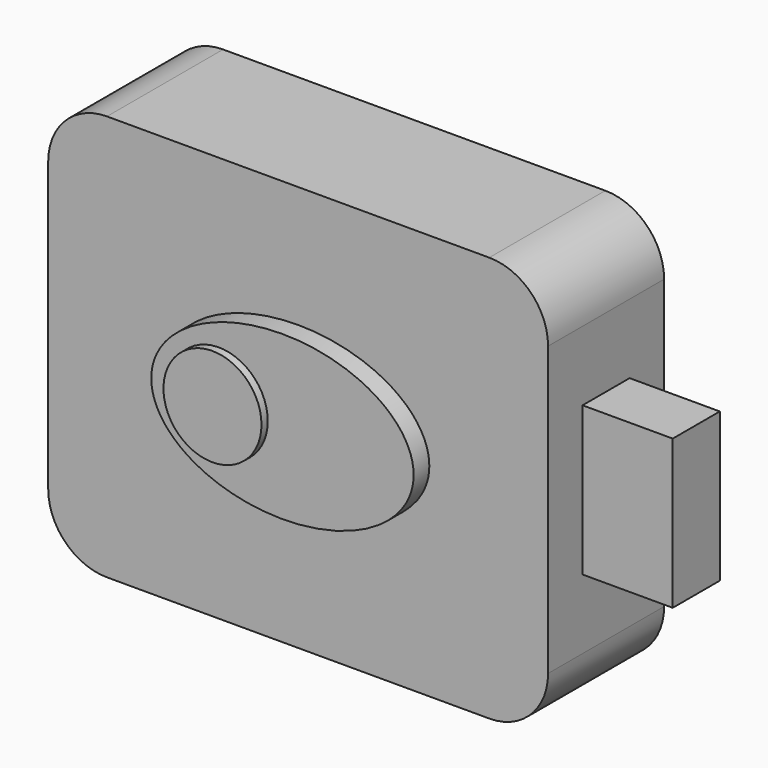
from build123d import *

# Parameters (mm, degrees)
F0_W     = 127.5
F0_H     = 103.5
F1_DEPTH = 37
F2_R     = 15
F3_W     = 15
F3_H     = 38
F4_DEPTH = 23
F6_DEPTH = 5
F7_R     = 12.5
F8_DEPTH = 95
F9_DEPTH = 2


with BuildPart() as f1:
    # F0 (on Front) → F1 (new body)
    with BuildSketch(Plane.XZ):
        with Locations((63.75, 51.75)):
            Rectangle(F0_W, F0_H)
    extrude(amount=F1_DEPTH)

    # F2
    f2_edges = [f1.edges().sort_by_distance(p)[0] for p in [
        (127.5, -18.5, 103.5),
        (0, -18.5, 103.5),
        (127.5, -18.5, 0),
        (0, -18.5, 0),
    ]]
    fillet(f2_edges, radius=F2_R)

    # F3 (on face) → F4 (join)
    with BuildSketch(Plane.YZ.offset(127.5)):
        with Locations((-18.5, 51.75)):
            Rectangle(F3_W, F3_H)
    extrude(amount=F4_DEPTH)

    # F5 (on face) → F6 (join)
    with BuildSketch(Plane.XZ.offset(37)):
        with BuildLine():
            add(Edge.make_bspline(
                [(97.211815, 51.75), (97.211815, 87.752968), (47.019092, 69.751484), (-3.173631, 51.75), (47.019092, 33.748516), (97.211815, 15.747032), (97.211815, 51.75)],
                knots=[0, 0, 0, 2.094395, 2.094395, 4.18879, 4.18879, 6.283185, 6.283185, 6.283185], degree=2, weights=[1, 0.5, 1, 0.5, 1, 0.5, 1]))
        make_face()
    extrude(amount=F6_DEPTH)

    # F7 (on face) → F8 (join)
    with BuildSketch(Plane.XZ.offset(42)):
        with Locations((47.5, 51.75)):
            Circle(F7_R)
    extrude(amount=-F8_DEPTH)

    # F7 (on face) → F9 (join)
    with BuildSketch(Plane.XZ.offset(42)):
        with Locations((47.5, 51.75)):
            Circle(F7_R)
    extrude(amount=F9_DEPTH)


solid = f1.part
